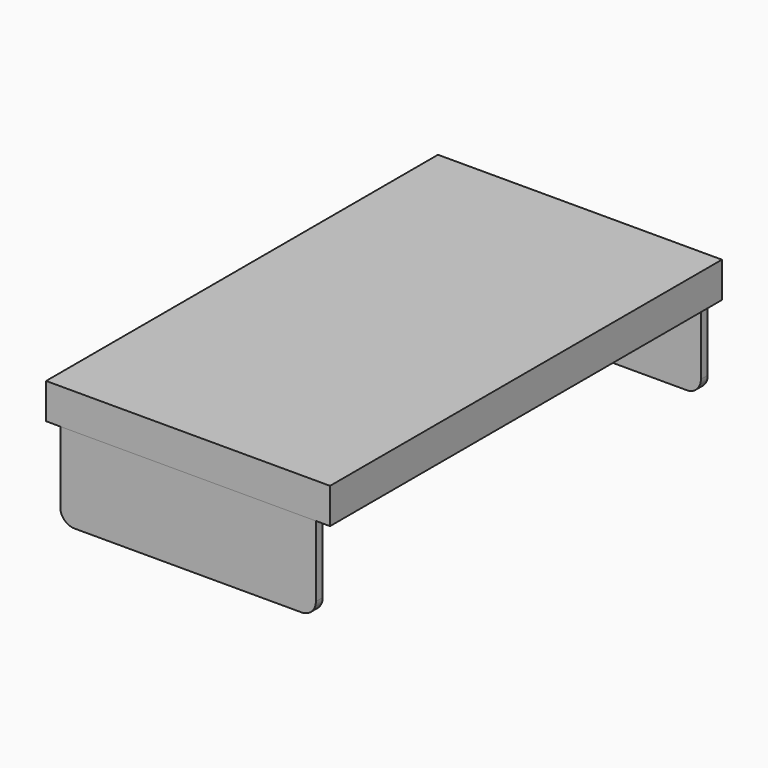
from build123d import *

# Parameters (mm, degrees)
F0_W     = 200
F0_H     = 345
F1_DEPTH = 25
F3_DEPTH = 6


with BuildPart() as f1:
    # F0 (on Top) → F1 (new body)
    with BuildSketch(Plane.XY):
        Rectangle(F0_W, F0_H)
    extrude(amount=F1_DEPTH)


with BuildPart() as f3:
    # F2 (on face) → F3 (new body)
    with BuildSketch(Plane.XZ.offset(172.5)):
        with BuildLine():
            Line((90, 0), (-90, 0))
            Line((-90, 0), (-90, -50))
            ThreePointArc((-90, -50), (-87.071068, -57.071068), (-80, -60))
            Line((-80, -60), (80, -60))
            ThreePointArc((80, -60), (87.071068, -57.071068), (90, -50))
            Line((90, -50), (90, 0))
        make_face()
    extrude(amount=-F3_DEPTH)


with BuildPart() as f4_1:
    # F4: copy of F3
    add(f3.part.moved(Location((0, 339, 0))))


solid = Compound([f1.part, f3.part, f4_1.part])
